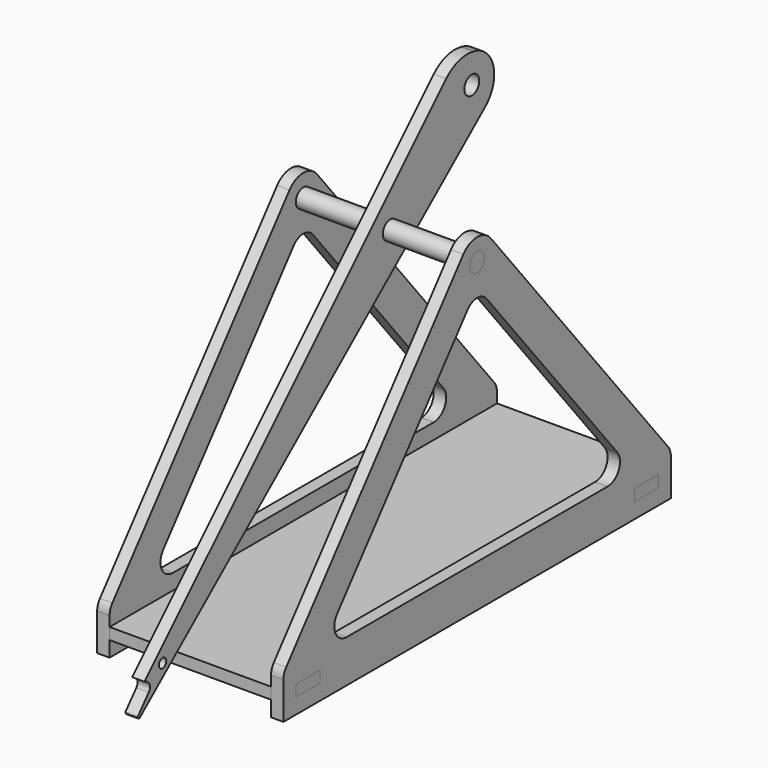
from build123d import *

# Parameters (mm, degrees)
F0_W          = 9.7
F0_H          = 3.7
F0_R          = 3
F1_DEPTH      = 4
F4_DEPTH      = 3.7
F6_DEPTH      = 30
F6_DEPTH_BACK = 30
F7_R          = 3
F7_R_2        = 2.85
F7_R_3        = 1.5
F8_DEPTH      = 2
F8_DEPTH_BACK = 2
F9_ANGLE      = 140


with BuildPart() as f1:
    # F0 (on Right) → F1 (new body)
    with BuildSketch(Plane.YZ):
        with BuildLine():
            Line((-5.5267960221, 4.4765326035), (-76.8853785924, -83.6238712622))
            ThreePointArc((-76.8853785924, -83.6238712622), (-77.7131143081, -85.1016095692), (-78, -86.7709068822))
            Line((-78, -86.7709068822), (-78, -98.7))
            Line((-78, -98.7), (0, -98.7))
            Line((0, -98.7), (78, -98.7))
            Line((78, -98.7), (78, -86.7709068822))
            ThreePointArc((78, -86.7709068822), (77.7131143081, -85.1016095692), (76.8853785924, -83.6238712622))
            Line((76.8853785924, -83.6238712622), (5.5267960221, 4.4765326035))
            ThreePointArc((5.5267960221, 4.4765326035), (0, 7.1123005012), (-5.5267960221, 4.4765326035))
        make_face()
        with Locations((-68.15, -91.85)):
            Rectangle(F0_W, F0_H, mode=Mode.SUBTRACT)
        with Locations((68.15, -91.85)):
            Rectangle(F0_W, F0_H, mode=Mode.SUBTRACT)
        with BuildLine():
            Line((-56.4011549495, -76.85296438), (-3.8853785924, -12.0161789545))
            ThreePointArc((-3.8853785924, -12.0161789545), (0, -10.1632145745), (3.8853785924, -12.0161789545))
            Line((3.8853785924, -12.0161789545), (56.4011549495, -76.85296438))
            ThreePointArc((56.4011549495, -76.85296438), (57.0288228947, -82.152303638), (52.5157763571, -85))
            Line((52.5157763571, -85), (0, -85))
            Line((0, -85), (-52.5157763571, -85))
            ThreePointArc((-52.5157763571, -85), (-57.0288228947, -82.152303638), (-56.4011549495, -76.85296438))
        make_face(mode=Mode.SUBTRACT)
        Circle(F0_R, mode=Mode.SUBTRACT)
    extrude(amount=F1_DEPTH)


with BuildPart() as f1_1:
    # F2: moved
    add(f1.part.moved(Location((26, 0, 0))))


with BuildPart() as f4:
    # F3 (on face) → F4 (new body)
    with BuildSketch(Plane(origin=(0, 0, -90), x_dir=(1, 0, 0), z_dir=(0, 0, -1))):
        Polygon((30, 73), (26, 73), (26, 78), (-26, 78), (-26, 73), (-30, 73), (-30, 63.3), (-26, 63.3), (-26, -63.3), (-30, -63.3), (-30, -73), (-26, -73), (-26, -78), (26, -78), (26, -73), (30, -73), (30, -63.3), (26, -63.3), (26, 63.3), (30, 63.3), align=None)
    extrude(amount=F4_DEPTH)


with BuildPart() as f5_1:
    # F5: copy of F1
    add(f1_1.part.moved(Location((-56, 0, 0))))


with BuildPart() as f6:
    # F0 (on Right) → F6 (new body, two sides)
    with BuildSketch(Plane.YZ) as f6_sk:
        Circle(F0_R)
    extrude(amount=F6_DEPTH)
    extrude(f6_sk.sketch, amount=-F6_DEPTH_BACK)


with BuildPart() as f8:
    # F7 (on Right) → F8 (new body, two sides)
    with BuildSketch(Plane.YZ) as f8_sk:
        with BuildLine():
            ThreePointArc((131.6334784701, 5.7645101715), (132.1522268536, 7.0226671214), (133.3471354707, 7.6740135674))
            Line((133.3471354707, 7.6740135674), (139.9558569308, 8.7320477574))
            ThreePointArc((139.9558569308, 8.7320477574), (140.1310846134, 8.8272139134), (140.207945949, 9.0112075901))
            Line((140.207945949, 9.0112075901), (140.2317264876, 9.4285179168))
            ThreePointArc((140.2317264876, 9.4285179168), (140.150295376, 9.6515950692), (139.9322124025, 9.7455858056))
            Line((139.9322124025, 9.7455858056), (-41.714713878, 9.7455858056))
            ThreePointArc((-41.714713878, 9.7455858056), (-42.7624961522, 9.6941759906), (-43.8002128938, 9.5404404146))
            ThreePointArc((-43.8002128938, 9.5404404146), (-51.2282170535, 3.2079159681), (-49.7226558306, -6.4362219958))
            Line((-49.7226558306, -6.4362219958), (-49.4312389771, -6.8080769381))
            ThreePointArc((-49.4312389771, -6.8080769381), (-44.7595741919, -10.4158048902), (-38.9329915543, -11.3597792582))
            Line((-38.9329915543, -11.3597792582), (132.2904926006, 3.7249948917))
            ThreePointArc((132.2904926006, 3.7249948917), (131.7751606396, 4.6845683311), (131.6334784701, 5.7645101715))
        make_face()
        with Locations((-43, -0.1349021105)):
            Circle(F7_R, mode=Mode.SUBTRACT)
        Circle(F7_R_2, mode=Mode.SUBTRACT)
        with Locations((125.2310727514, 6.6266013202)):
            Circle(F7_R_3, mode=Mode.SUBTRACT)
    extrude(amount=F8_DEPTH)
    extrude(f8_sk.sketch, amount=-F8_DEPTH_BACK)


with BuildPart() as f8_1:
    # F9: moved
    add(f8.part.rotate(Axis((0, 0, 0), (-1, 0, 0)), F9_ANGLE))


solid = Compound([f1_1.part, f4.part, f5_1.part, f6.part, f8_1.part])
